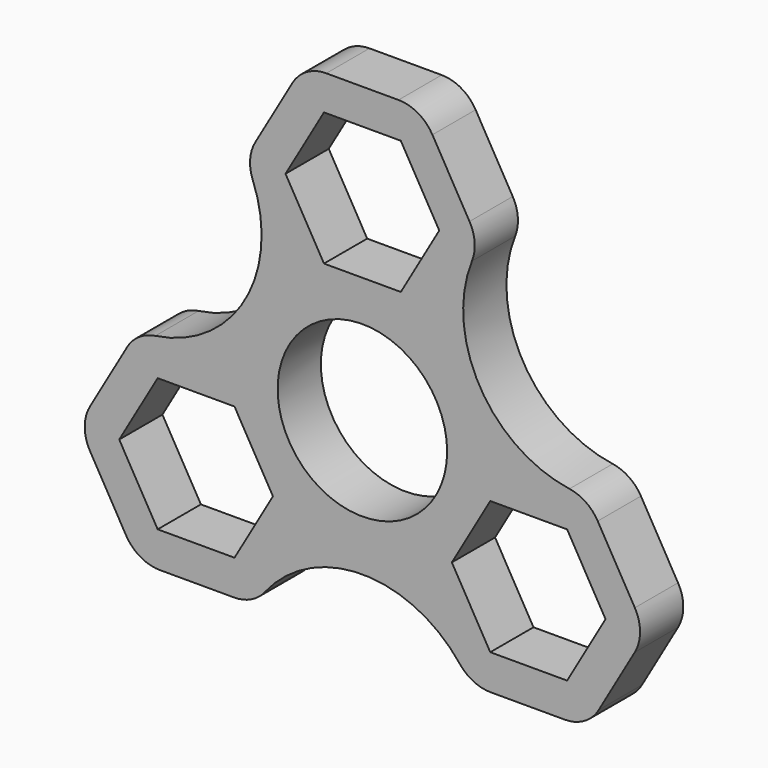
from build123d import *

# Parameters (mm, degrees)
F0_R     = 10.9982
F1_DEPTH = 7.0104
F2_R     = 5.08


with BuildPart() as f1:
    # F0 (on Front) → F1 (new body)
    with BuildSketch(Plane.XZ):
        Polygon((-9.826141, 15.543425), (-9.400071, 16.2814), (-4.985997, 16.2814), (-9.971994, 24.9174), (-4.985997, 33.5534), (4.985997, 33.5534), (9.971994, 24.9174), (4.985997, 16.2814), (9.400071, 16.2814), (9.826141, 15.543425), (15.238207, 24.9174), (7.619104, 38.114075), (-7.619104, 38.114075), (-15.238207, 24.9174), align=None)
        with BuildLine():
            Line((-18.374072, 0.737975), (-9.826141, 15.543425))
            Line((-9.826141, 15.543425), (-15.238207, 24.9174))
            ThreePointArc((-15.238207, 24.9174), (-15.238207, 8.797783), (-29.198205, 0.737975))
            Line((-29.198205, 0.737975), (-18.374072, 0.737975))
        make_face()
        Polygon((-18.800141, 0), (-18.374072, 0.737975), (-29.198205, 0.737975), (-36.817309, -12.4587), (-29.198205, -25.655375), (-13.959998, -25.655375), (-8.547931, -16.2814), (-9.400071, -16.2814), (-11.607108, -12.4587), (-16.593104, -21.0947), (-26.565098, -21.0947), (-31.551095, -12.4587), (-26.565098, -3.8227), (-16.593104, -3.8227), align=None)
        with BuildLine():
            Line((15.238207, 24.9174), (9.826141, 15.543425))
            Line((9.826141, 15.543425), (18.374072, 0.737975))
            Line((18.374072, 0.737975), (29.198205, 0.737975))
            ThreePointArc((29.198205, 0.737975), (15.238207, 8.797783), (15.238207, 24.9174))
        make_face()
        Polygon((29.198205, 0.737975), (18.374072, 0.737975), (18.800141, 0), (16.593104, -3.8227), (26.565098, -3.8227), (31.551095, -12.4587), (26.565098, -21.0947), (16.593104, -21.0947), (11.607108, -12.4587), (9.400071, -16.2814), (8.547931, -16.2814), (13.959998, -25.655375), (29.198205, -25.655375), (36.817309, -12.4587), align=None)
        with BuildLine():
            Line((8.547931, -16.2814), (-8.547931, -16.2814))
            Line((-8.547931, -16.2814), (-13.959998, -25.655375))
            ThreePointArc((-13.959998, -25.655375), (0, -17.595566), (13.959998, -25.655375))
            Line((13.959998, -25.655375), (8.547931, -16.2814))
        make_face()
        Polygon((-7.619104, 11.720725), (-9.826141, 15.543425), (-18.374072, 0.737975), (-13.959998, 0.737975), (-6.340894, -12.4587), (-8.547931, -16.2814), (8.547931, -16.2814), (6.340894, -12.4587), (13.959998, 0.737975), (18.374072, 0.737975), (9.826141, 15.543425), (7.619104, 11.720725), align=None)
        Circle(F0_R, mode=Mode.SUBTRACT)
        Polygon((-4.985997, 16.2814), (-9.400071, 16.2814), (-9.826141, 15.543425), (-7.619104, 11.720725), (7.619104, 11.720725), (9.826141, 15.543425), (9.400071, 16.2814), (4.985997, 16.2814), align=None)
        Polygon((18.800141, 0), (18.374072, 0.737975), (13.959998, 0.737975), (6.340894, -12.4587), (8.547931, -16.2814), (9.400071, -16.2814), (11.607108, -12.4587), (16.593104, -3.8227), align=None)
        Polygon((-13.959998, 0.737975), (-18.374072, 0.737975), (-18.800141, 0), (-16.593104, -3.8227), (-11.607108, -12.4587), (-9.400071, -16.2814), (-8.547931, -16.2814), (-6.340894, -12.4587), align=None)
    extrude(amount=F1_DEPTH)

    # F2
    f2_edges = [f1.edges().sort_by_distance(p)[0] for p in [
        (-15.238207, -3.5052, 24.9174),
        (-7.619104, -3.5052, 38.114075),
        (7.619104, -3.5052, 38.114075),
        (15.238207, -3.5052, 24.9174),
        (29.198205, -3.5052, 0.737975),
        (36.817309, -3.5052, -12.4587),
        (29.198205, -3.5052, -25.655375),
        (13.959998, -3.5052, -25.655375),
        (-36.817309, -3.5052, -12.4587),
        (-29.198205, -3.5052, -25.655375),
        (-13.959998, -3.5052, -25.655375),
        (-29.198205, -3.5052, 0.737975),
    ]]
    fillet(f2_edges, radius=F2_R)


solid = f1.part
